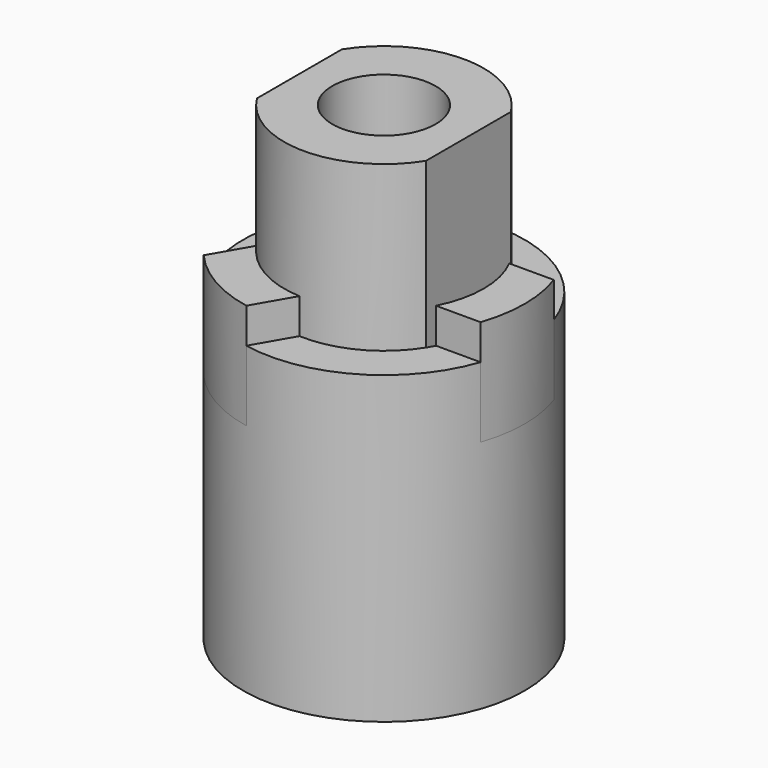
from build123d import *

# Parameters (mm, degrees)
SKETCH_R      = 6
PAD_DEPTH     = 10
PAD001_DEPTH  = 10
SKETCH002_R   = 2.2
POCKET_DEPTH  = 20.001
PAD002_DEPTH  = 4.5
SKETCH004_R   = 6
SKETCH004_R_2 = 4.25
PAD003_DEPTH  = 3


with BuildPart() as part:
    # Sketch → Pad (new body)
    with BuildSketch(Plane.XY):
        Circle(SKETCH_R)
    extrude(amount=PAD_DEPTH)

    # Sketch001 (on Face3 of Pad) → Pad001 (join)
    with BuildSketch(Plane.XY.offset(10)):
        with BuildLine():
            ThreePointArc((-3.6, -2.258871), (0, -4.25), (3.6, -2.258871))
            Line((3.6, -2.258871), (3.6, 2.258871))
            ThreePointArc((3.6, 2.258871), (0, 4.25), (-3.6, 2.258871))
            Line((-3.6, -2.258871), (-3.6, 2.258871))
        make_face()
    extrude(amount=PAD001_DEPTH)

    # Sketch002 (on Face8 of Pad001) → Pocket (cut, through all)
    with BuildSketch(Plane.XY.offset(20)):
        Circle(SKETCH002_R)
    extrude(amount=-POCKET_DEPTH, mode=Mode.SUBTRACT)

    # Sketch003 (on Face3 of Pocket) → Pad002 (join)
    with BuildSketch(Plane.XY.offset(10)):
        with BuildLine():
            ThreePointArc((3.776242, -1.95), (4.25, 0), (3.776242, 1.95))
            Line((3.776242, 1.95), (5.674284, 1.95))
            ThreePointArc((5.674284, -1.95), (6, 0), (5.674284, 1.95))
            Line((3.776242, -1.95), (5.674284, -1.95))
        make_face()
        with BuildLine():
            ThreePointArc((-1.148393, 5.889074), (-3, 5.196152), (-4.525892, 3.939074))
            Line((-3.57687, 2.295321), (-4.525892, 3.939074))
            ThreePointArc((-0.199371, 4.245321), (-2.125, 3.680608), (-3.57687, 2.295321))
            Line((-1.148393, 5.889074), (-0.199371, 4.245321))
        make_face()
        with BuildLine():
            ThreePointArc((-4.525892, -3.939074), (-3, -5.196152), (-1.148393, -5.889074))
            Line((-1.148393, -5.889074), (-0.199371, -4.245321))
            ThreePointArc((-3.57687, -2.295321), (-2.125, -3.680608), (-0.199371, -4.245321))
            Line((-4.525892, -3.939074), (-3.57687, -2.295321))
        make_face()
    extrude(amount=PAD002_DEPTH)

    # Sketch004 (on Face4 of Pad002) → Pad003 (join)
    with BuildSketch(Plane.XY.offset(10)):
        Circle(SKETCH004_R)
        Circle(SKETCH004_R_2, mode=Mode.SUBTRACT)
    extrude(amount=PAD003_DEPTH)


solid = part.part
